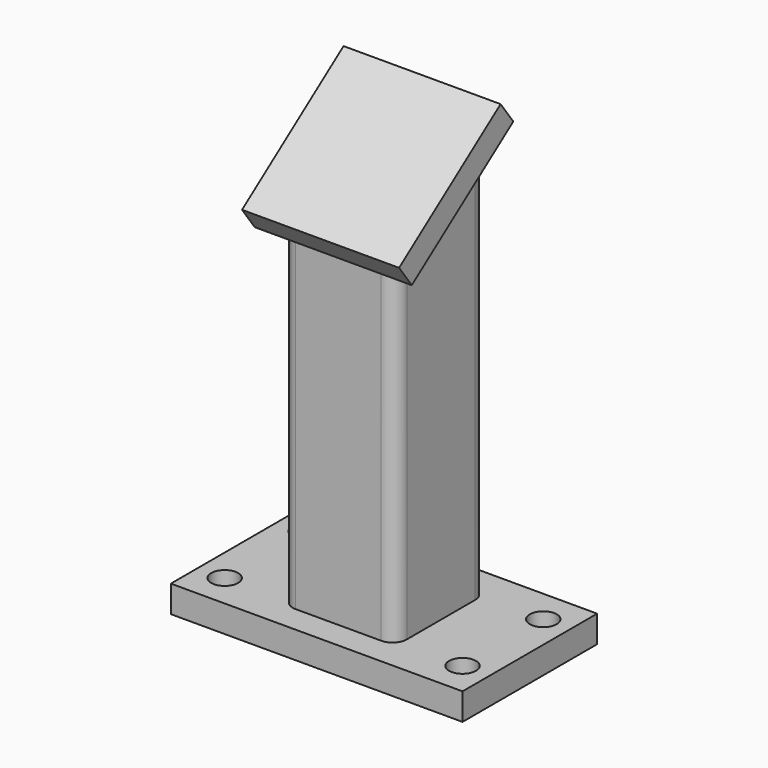
from build123d import *

# Parameters (mm, degrees)
F0_W     = 130
F0_H     = 75
F1_DEPTH = 12
F3_DEPTH = 185
F5_D     = 12
F7_DEPTH = 50.8
F8_W     = 70
F8_H     = 70
F9_DEPTH = 12


with BuildPart() as f1:
    # F0 (on Top) → F1 (new body)
    with BuildSketch(Plane.XY):
        Rectangle(F0_W, F0_H)
    extrude(amount=-F1_DEPTH)

    # F2 (on face) → F3 (join)
    with BuildSketch(Plane.XY):
        with BuildLine():
            Line((-19.05, -25.4), (19.05, -25.4))
            ThreePointArc((19.05, -25.4), (23.540128, -23.540128), (25.4, -19.05))
            Line((25.4, -19.05), (25.4, 19.05))
            ThreePointArc((25.4, 19.05), (23.540128, 23.540128), (19.05, 25.4))
            Line((19.05, 25.4), (-19.05, 25.4))
            ThreePointArc((-19.05, 25.4), (-23.540128, 23.540128), (-25.4, 19.05))
            Line((-25.4, 19.05), (-25.4, -19.05))
            ThreePointArc((-25.4, -19.05), (-23.540128, -23.540128), (-19.05, -25.4))
        make_face()
        with BuildLine():
            Line((-12.7, 19.05), (12.7, 19.05))
            ThreePointArc((12.7, 19.05), (17.190128, 17.190128), (19.05, 12.7))
            Line((19.05, 12.7), (19.05, -12.7))
            ThreePointArc((19.05, -12.7), (17.190128, -17.190128), (12.7, -19.05))
            Line((12.7, -19.05), (-12.7, -19.05))
            ThreePointArc((-12.7, -19.05), (-17.190128, -17.190128), (-19.05, -12.7))
            Line((-19.05, -12.7), (-19.05, 12.7))
            ThreePointArc((-19.05, 12.7), (-17.190128, 17.190128), (-12.7, 19.05))
        make_face(mode=Mode.SUBTRACT)
    extrude(amount=F3_DEPTH)

    # F5 (through all)
    with Locations(Plane.XY):
        with Locations((-53, 22.5), (53, 22.5), (53, -22.5), (-53, -22.5)):
            Hole(F5_D / 2)

    # F6 (on face) → F7 (cut)
    with BuildSketch(Plane.YZ.offset(25.4)):
        Polygon((25.4, 185), (-25.4, 185), (-25.4, 147.956003), align=None)
    extrude(amount=-F7_DEPTH, mode=Mode.SUBTRACT)

    # F8 (on face) → F9 (join)
    with BuildSketch(Plane(origin=(0, -79.254299, 108.684772), x_dir=(1, 0, 0), z_dir=(0, -0.589196, 0.80799))):
        with Locations((0, 98.088232)):
            Rectangle(F8_W, F8_H)
        with Locations((0, 98.088232)):
            Rectangle(F8_W, F8_H)
        with Locations((0, 98.088232)):
            Rectangle(F8_W, F8_H)
    extrude(amount=F9_DEPTH)


solid = f1.part
